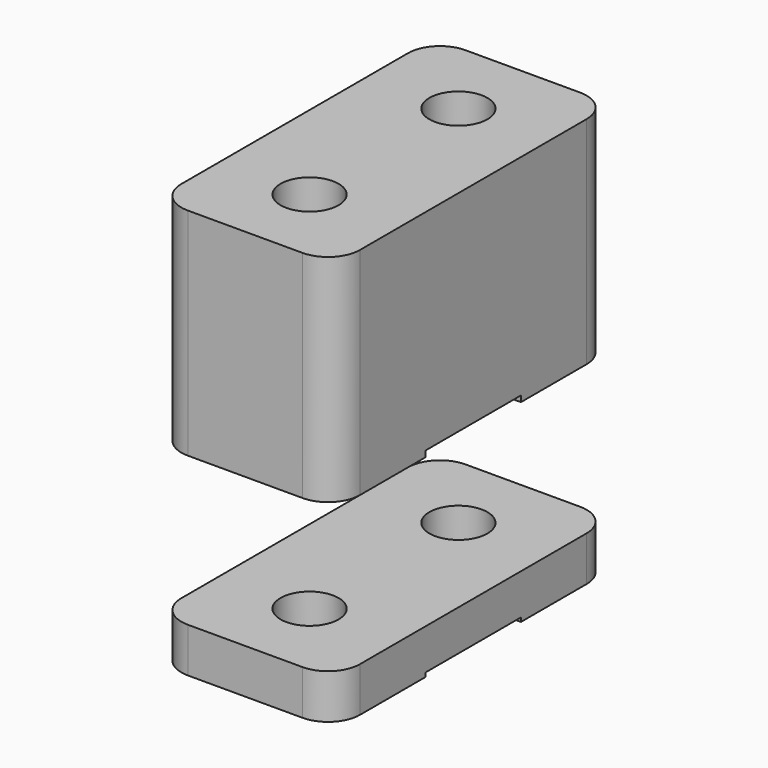
from build123d import *

# Parameters (mm, degrees)
F0_R          = 1.95
F1_DEPTH      = 6.5
F4_R          = 1.95
F5_DEPTH      = 3
F7_DEPTH      = 4
F7_DEPTH_BACK = 4
F8_W          = 12
F8_H          = 4
F9_DEPTH      = 0.4
F10_DEPTH     = 8


with BuildPart() as f1:
    # F0 (on Top) → F1 (new body)
    with BuildSketch(Plane.XY):
        with BuildLine():
            Line((3.854228543, 11.6629619151), (-3.854228543, 11.6629619151))
            ThreePointArc((-3.854228543, 11.6629619151), (-5.3715180911, 11.0344800063), (-6, 9.5171904582))
            Line((-6, 9.5171904582), (-6, 0))
            Line((-6, 0), (6, 0))
            Line((6, 0), (6, 9.5171904582))
            ThreePointArc((6, 9.5171904582), (5.3715180911, 11.0344800063), (3.854228543, 11.6629619151))
        make_face()
        with Locations((0, 6.25)):
            Circle(F0_R, mode=Mode.SUBTRACT)
    extrude(amount=F1_DEPTH)

    # F2: F1 across plane


with BuildPart() as f1_1:
    add(f1.part)
    add(f1.part.mirror(Plane.XZ))

    # F8 (on Top) → F9 (cut)
    with BuildSketch(Plane.XY):
        with Locations((0, 2)):
            Rectangle(F8_W, F8_H)
        with Locations((0, -2)):
            Rectangle(F8_W, F8_H)
    extrude(amount=F9_DEPTH, mode=Mode.SUBTRACT)

    # F10 (add): a face of the model
    f10_faces = [f1_1.faces().sort_by_distance(p)[0] for p in [
        (0, 0, 6.5),
    ]]
    extrude(f10_faces, amount=F10_DEPTH)


with BuildPart() as f5:
    # F4 (on offset) → F5 (new body)
    with BuildSketch(Plane.XY.offset(-10)):
        with BuildLine():
            ThreePointArc((-3.854228543, 11.6629619151), (-5.3715180911, 11.0344800063), (-6, 9.5171904582))
            Line((-6, 9.5171904582), (-6, -9.5171904582))
            ThreePointArc((-6, -9.5171904582), (-5.3715180911, -11.0344800063), (-3.854228543, -11.6629619151))
            Line((-3.854228543, -11.6629619151), (3.854228543, -11.6629619151))
            ThreePointArc((3.854228543, -11.6629619151), (5.3715180911, -11.0344800063), (6, -9.5171904582))
            Line((6, -9.5171904582), (6, 9.5171904582))
            ThreePointArc((6, 9.5171904582), (5.3715180911, 11.0344800063), (3.854228543, 11.6629619151))
            Line((3.854228543, 11.6629619151), (-3.854228543, 11.6629619151))
        make_face()
        with Locations((0, -6.25)):
            Circle(F4_R, mode=Mode.SUBTRACT)
        with Locations((0, 6.25)):
            Circle(F4_R, mode=Mode.SUBTRACT)
    extrude(amount=-F5_DEPTH)

    # F6 (on Front) → F7 (cut, two sides)
    with BuildSketch(Plane.XZ) as f7_sk:
        Polygon((-6, -12.7287376672), (-6, -13), (-4, -13), (-4, -12.7287376672), (-5, -11.55), align=None)
        Polygon((-4, -12.7287376672), (-4, -13), (-2, -13), (-2, -12.7287376672), (-3, -11.55), align=None)
        Polygon((-2, -12.7287376672), (-2, -13), (0, -13), (0, -12.7287376672), (-1, -11.55), align=None)
        Polygon((0, -12.7287376672), (0, -13), (2, -13), (2, -12.7287376672), (1, -11.55), align=None)
        Polygon((2, -12.7287376672), (2, -13), (4, -13), (4, -12.7287376672), (3, -11.55), align=None)
        Polygon((4, -12.7287376672), (4, -13), (6, -13), (6, -12.7287376672), (5, -11.55), align=None)
    extrude(amount=-F7_DEPTH, mode=Mode.SUBTRACT)
    extrude(f7_sk.sketch, amount=F7_DEPTH_BACK, mode=Mode.SUBTRACT)


solid = Compound([f1_1.part, f5.part])
